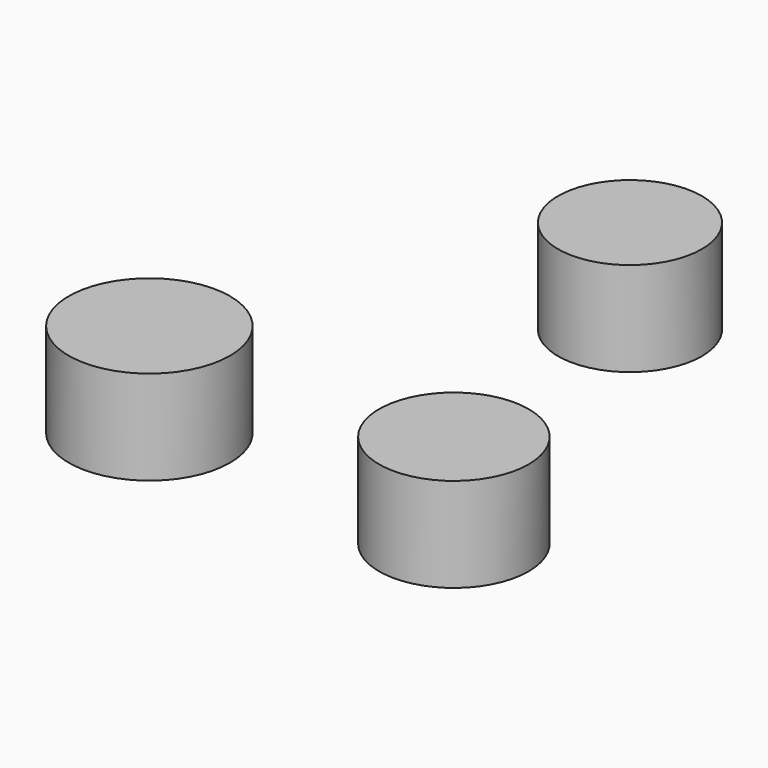
from build123d import *

# Parameters (mm, degrees)
F0_R     = 2.173902
F1_R     = 2.016311
F3_DEPTH = 2.54
F2_R     = 1.938761
F4_DEPTH = 2.54


with BuildPart() as f3:
    # F0 (on Top) + F1 (on face) → F3 (new body)
    with BuildSketch(Plane.XY):
        with Locations((-44.55252, 41.257218)):
            Circle(F0_R)
    with BuildSketch(Plane.XY):
        with Locations((-36.394596, 41.319162)):
            Circle(F1_R)
    extrude(amount=-F3_DEPTH)


with BuildPart() as f4:
    # F2 (on Top) → F4 (new body)
    with BuildSketch(Plane.XY):
        with Locations((-36.549695, 47.445644)):
            Circle(F2_R)
    extrude(amount=F4_DEPTH)


solid = Compound([f3.part, f4.part])
